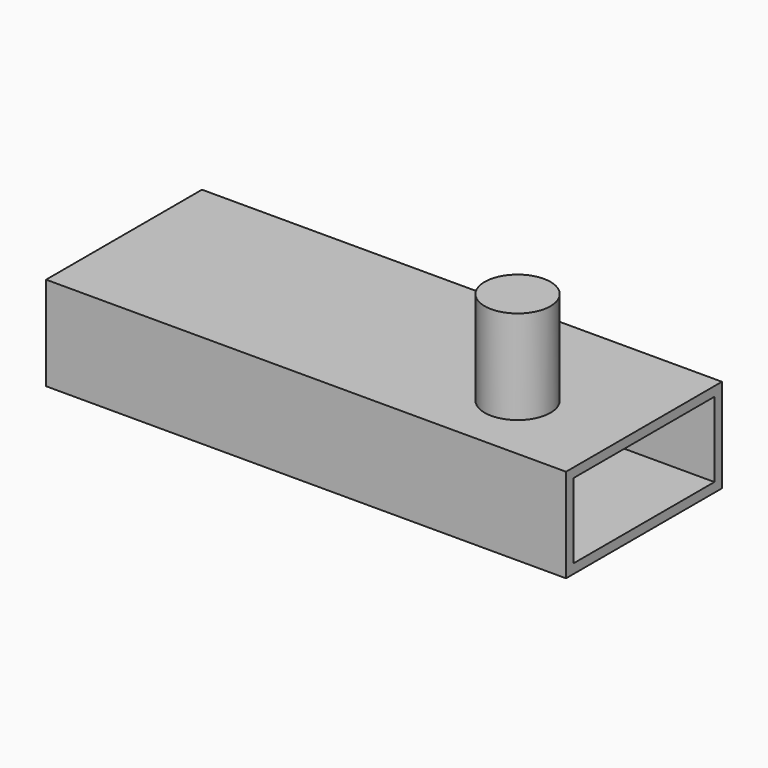
from build123d import *

# Parameters (mm, degrees)
F0_W     = 140.7188475132
F0_H     = 52.7415163815
F1_DEPTH = 25.4
F2_R     = 8.9116900181
F3_DEPTH = 25.4
F4_T     = -2.54


with BuildPart() as f1:
    # F0 (on Top) → F1 (new body)
    with BuildSketch(Plane.XY):
        with Locations((1.1782646179, 2.4687517434)):
            Rectangle(F0_W, F0_H)
    extrude(amount=F1_DEPTH)

    # F2 (on face) → F3 (join)
    with BuildSketch(Plane.XY.offset(25.4)):
        with Locations((43.2196445763, -4.8853275366)):
            Circle(F2_R)
    extrude(amount=F3_DEPTH)

    # F4
    f4_openings = [f1.faces().sort_by_distance(p)[0] for p in [
        (71.537688, 2.468752, 12.7),
    ]]
    offset(amount=F4_T, openings=f4_openings, kind=Kind.INTERSECTION)


solid = f1.part
